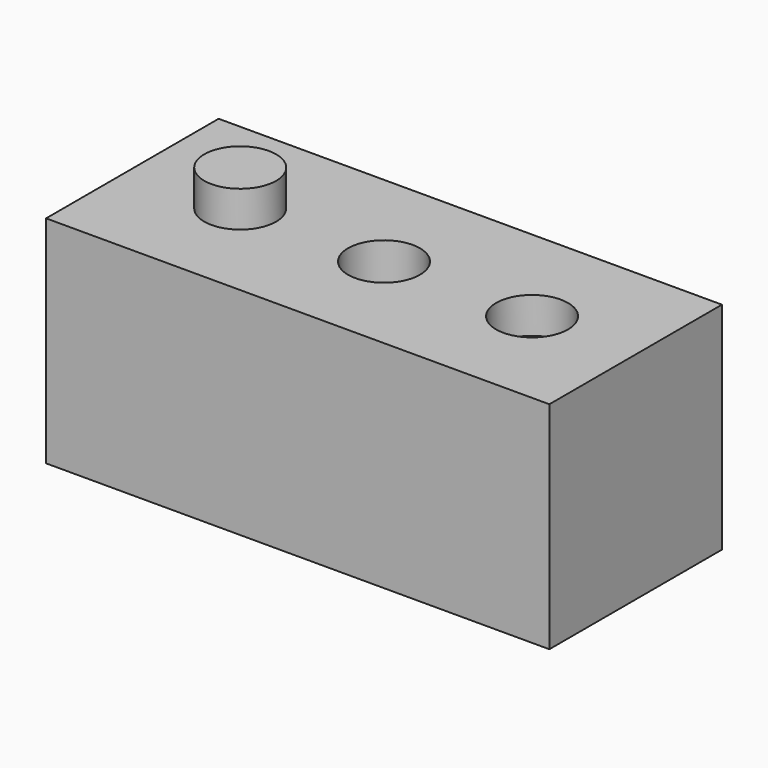
from build123d import *

# Parameters (mm, degrees)
F0_W     = 140
F0_H     = 60
F1_DEPTH = 30
F2_R     = 10
F3_DEPTH = 63.9
F4_R     = 10
F5_DEPTH = 10
F6_R     = 10
F7_DEPTH = 10


with BuildPart() as f1:
    # F0 (on Front) → F1 (new body, symmetric)
    with BuildSketch(Plane.XZ):
        Rectangle(F0_W, F0_H)
    extrude(amount=F1_DEPTH, both=True)

    # F2 (on face) → F3 (cut)
    with BuildSketch(Plane.XY.offset(30)):
        Circle(F2_R)
    extrude(amount=-F3_DEPTH, mode=Mode.SUBTRACT)

    # F4 (on face) → F5 (cut)
    with BuildSketch(Plane.XY.offset(30)):
        with Locations((41.187881, 0)):
            Circle(F4_R)
    extrude(amount=-F5_DEPTH, mode=Mode.SUBTRACT)

    # F6 (on face) → F7 (join)
    with BuildSketch(Plane.XY.offset(30)):
        with Locations((-40, 0)):
            Circle(F6_R)
    extrude(amount=F7_DEPTH)


solid = f1.part
